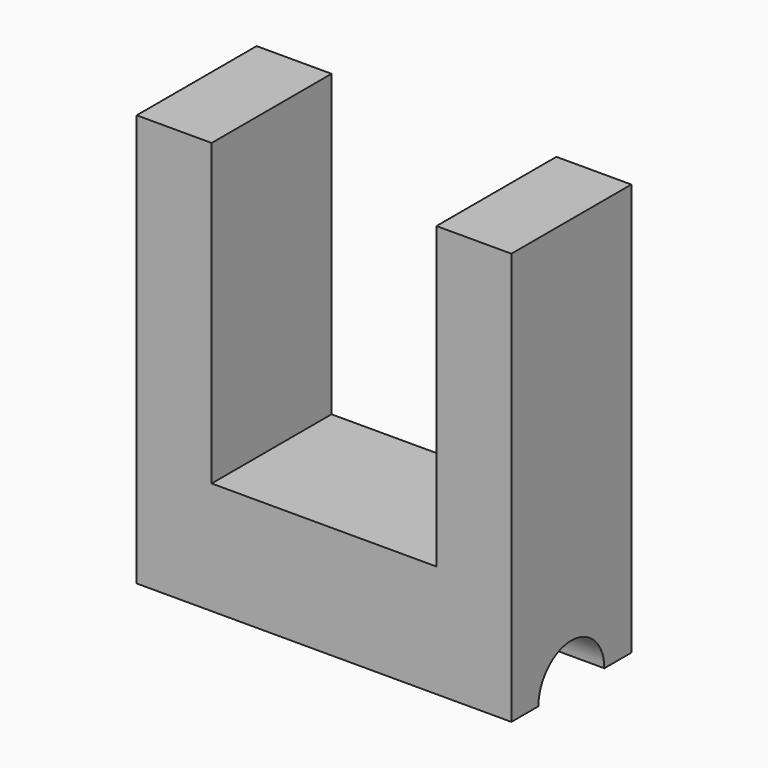
from build123d import *

# Parameters (mm, degrees)
F1_DEPTH = 5.08
F2_R     = 1.397
F3_DEPTH = 25.4


with BuildPart() as f1:
    # F0 (on Front) → F1 (new body)
    with BuildSketch(Plane.XZ):
        Polygon((-15.834635, 13.97), (-18.374635, 13.97), (-18.374635, 0), (-12.024635, 0), (-12.024635, 3.81), (-15.834635, 3.81), align=None)
        Polygon((-12.024635, 3.81), (-12.024635, 0), (-5.674635, 0), (-5.674635, 13.97), (-8.214635, 13.97), (-8.214635, 3.81), align=None)
    extrude(amount=F1_DEPTH)

    # F2 (on face) → F3 (cut)
    with BuildSketch(Plane.YZ.offset(-5.674635)):
        with Locations((-2.54, 0)):
            Circle(F2_R)
    extrude(amount=-F3_DEPTH, mode=Mode.SUBTRACT)


solid = f1.part
